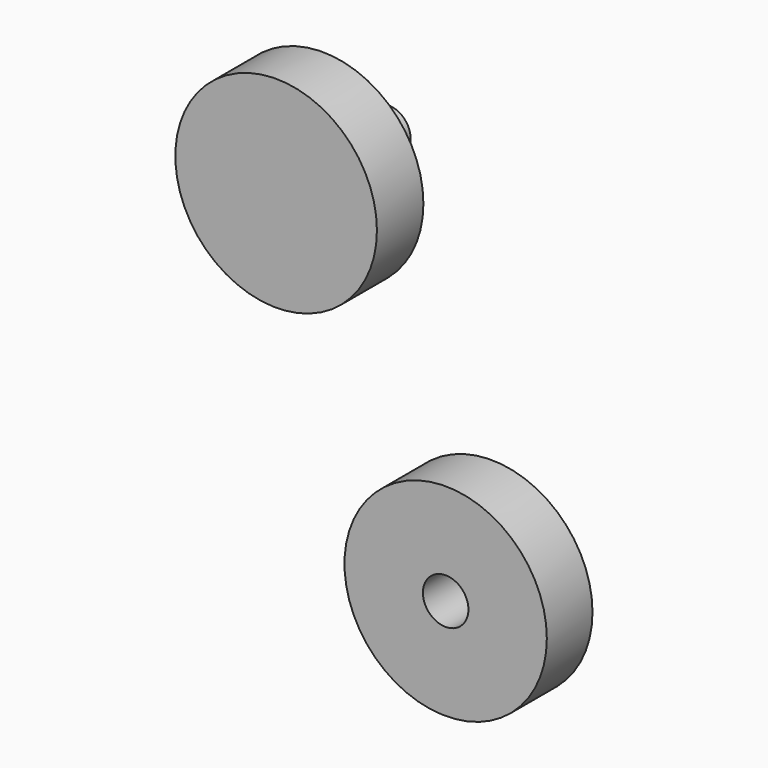
from build123d import *

# Parameters (mm, degrees)
F0_R      = 25.1228109889
F1_DEPTH  = 14.478
F2_R      = 5.5404486576
F3_DEPTH  = 17.272
F4_R      = 25.2159750878
F4_R_2    = 5.669759619
F5_DEPTH  = 14.224
F6_R      = 6.940934254
F6_R_2    = 3.7960935957
F7_DEPTH  = 12.954
F8_R      = 3.6588389903
F8_R_2    = 2.3542381967
F3_FACE_R = 5.5404486576
F9_DEPTH  = 4.318


with BuildPart() as f1:
    # F0 (on Front) → F1 (new body)
    with BuildSketch(Plane.XZ):
        with Locations((-35.4788862169, 29.0547255427)):
            Circle(F0_R)
    extrude(amount=F1_DEPTH)

    # F2 (on Front) → F3 (join)
    with BuildSketch(Plane.XZ):
        with Locations((-36.3549105823, 27.8866980225)):
            Circle(F2_R)
    extrude(amount=-F3_DEPTH)

    # F6 (on Front) → F7 (join)
    with BuildSketch(Plane.XZ):
        with Locations((-36.3549105823, 28.1787049025)):
            Circle(F6_R)
        with Locations((-36.3549105823, 28.1787049025)):
            Circle(F6_R_2, mode=Mode.SUBTRACT)
    extrude(amount=-F7_DEPTH)

    # F8 (on Front) + F3_face (on face) → F9 (join)
    with BuildSketch(Plane.XZ):
        with Locations((-36.3549105823, 27.3026842624)):
            Circle(F8_R)
        with Locations((-36.3549105823, 27.3026842624)):
            Circle(F8_R_2, mode=Mode.SUBTRACT)
    with BuildSketch(Plane(origin=(-36.3549105823, 17.272, 27.8866980225), x_dir=(1, 0, 0), z_dir=(0, 1, 0))):
        Circle(F3_FACE_R)
    extrude(amount=-F9_DEPTH, dir=(0, -1, 0))


with BuildPart() as f5:
    # F4 (on Front) → F5 (new body)
    with BuildSketch(Plane.XZ):
        with Locations((6.5701655112, -46.8671731651)):
            Circle(F4_R)
        with Locations((6.5701655112, -46.8671731651)):
            Circle(F4_R_2, mode=Mode.SUBTRACT)
    extrude(amount=F5_DEPTH)


solid = Compound([f1.part, f5.part])
